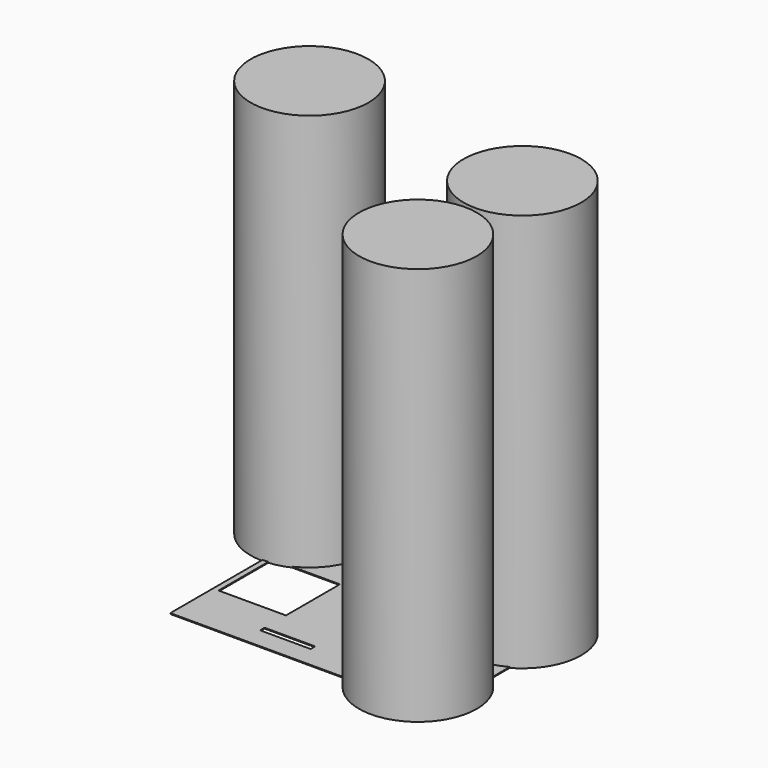
from build123d import *

# Parameters (mm, degrees)
CYLINDER_R        = 10.4902
CYLINDER_DEPTH    = 70.993
SKETCH_W          = 47
SKETCH_H          = 31
SKETCH_W_2        = 12
SKETCH_H_2        = 12
SKETCH_W_3        = 9
SKETCH_H_3        = 1
PAD_DEPTH         = 0.15
CYLINDER001_R     = 10.4902
CYLINDER001_DEPTH = 70.993
CYLINDER002_R     = 10.4902
CYLINDER002_DEPTH = 70.993
CYLINDER003_R     = 10.4902
CYLINDER003_DEPTH = 70.993


with BuildPart() as cylinder:
    # Cylinder → Cylinder (new body)
    with BuildSketch(Plane.XY):
        Circle(CYLINDER_R)
    extrude(amount=CYLINDER_DEPTH)


with BuildPart() as body:
    # Sketch → Pad (new body)
    with BuildSketch(Plane.XY):
        with Locations((23.5, -15.5)):
            Rectangle(SKETCH_W, SKETCH_H)
        with Locations((7, -15.5)):
            Rectangle(SKETCH_W_2, SKETCH_H_2, mode=Mode.SUBTRACT)
        with Locations((18.5, -4.25)):
            Rectangle(SKETCH_W_3, SKETCH_H_3, mode=Mode.SUBTRACT)
        with Locations((17.5, -26.75)):
            Rectangle(SKETCH_W_3, SKETCH_H_3, mode=Mode.SUBTRACT)
        with Locations((30, -15.5)):
            Rectangle(SKETCH_W_2, SKETCH_H_2, mode=Mode.SUBTRACT)
        with Locations((41.5, -4.25)):
            Rectangle(SKETCH_W_3, SKETCH_H_3, mode=Mode.SUBTRACT)
        with Locations((40.5, -26.75)):
            Rectangle(SKETCH_W_3, SKETCH_H_3, mode=Mode.SUBTRACT)
    extrude(amount=PAD_DEPTH)


with BuildPart() as cylinder001:
    # Cylinder001 → Cylinder001 (new body)
    with BuildSketch(Plane(origin=(41.91, -5, 0), x_dir=(1, 0, 0), z_dir=(0, 0, 1))):
        Circle(CYLINDER001_R)
    extrude(amount=CYLINDER001_DEPTH)


with BuildPart() as cylinder002:
    # Cylinder002 → Cylinder002 (new body)
    with BuildSketch(Plane(origin=(40.64, -26.67, 0), x_dir=(1, 0, 0), z_dir=(0, 0, 1))):
        Circle(CYLINDER002_R)
    extrude(amount=CYLINDER002_DEPTH)


with BuildPart() as cylinder003:
    # Cylinder003 → Cylinder003 (new body)
    with BuildSketch(Plane.XY):
        Circle(CYLINDER003_R)
    extrude(amount=CYLINDER003_DEPTH)


solid = Compound([cylinder.part, body.part, cylinder001.part, cylinder002.part, cylinder003.part])
